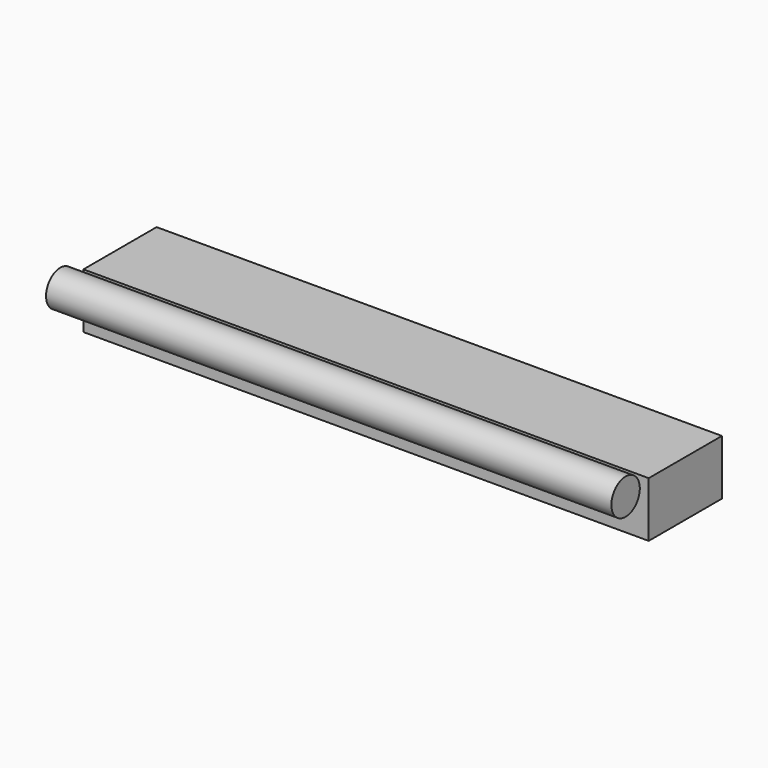
from build123d import *

# Parameters (mm, degrees)
F0_W     = 69.890835
F0_H     = 42.187988
F0_R     = 13.579829
F1_DEPTH = 431.8


with BuildPart() as f1:
    # F0 (on Right) → F1 (new body)
    with BuildSketch(Plane.YZ):
        with Locations((29.694554, 36.937125)):
            Rectangle(F0_W, F0_H)
        with Locations((-27.340716, 54.590903)):
            Circle(F0_R)
    extrude(amount=F1_DEPTH)


solid = f1.part
